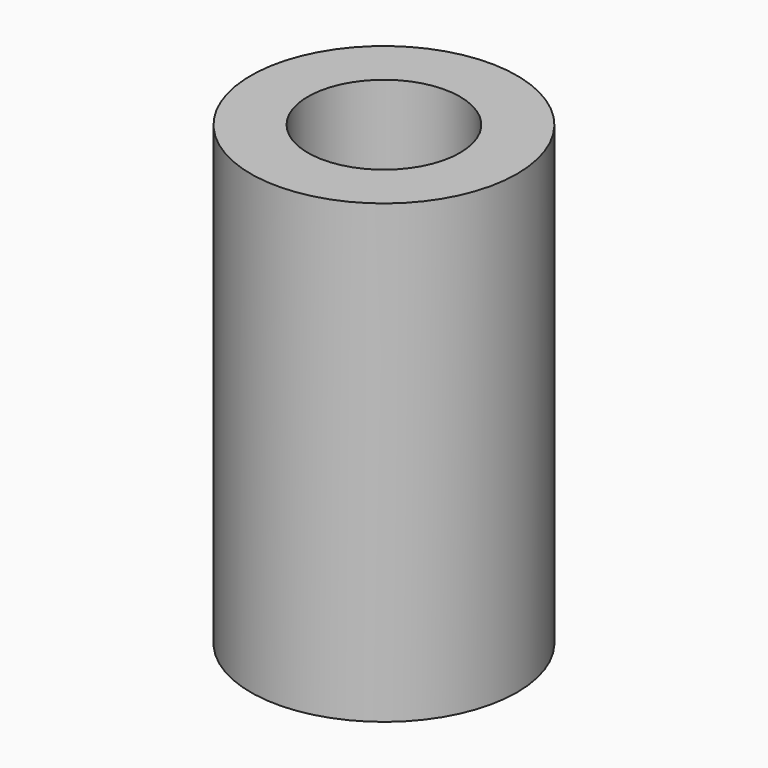
from build123d import *

# Parameters (mm, degrees)
F0_R     = 11.1125
F1_DEPTH = 19.05
F2_R     = 6.35
F3_DEPTH = 19.05


with BuildPart() as f1:
    # F0 (on Top) → F1 (new body, symmetric)
    with BuildSketch(Plane.XY):
        Circle(F0_R)
    extrude(amount=F1_DEPTH, both=True)

    # F2 (on Top) → F3 (cut, symmetric)
    with BuildSketch(Plane.XY):
        Circle(F2_R)
    extrude(amount=F3_DEPTH, both=True, mode=Mode.SUBTRACT)


solid = f1.part
